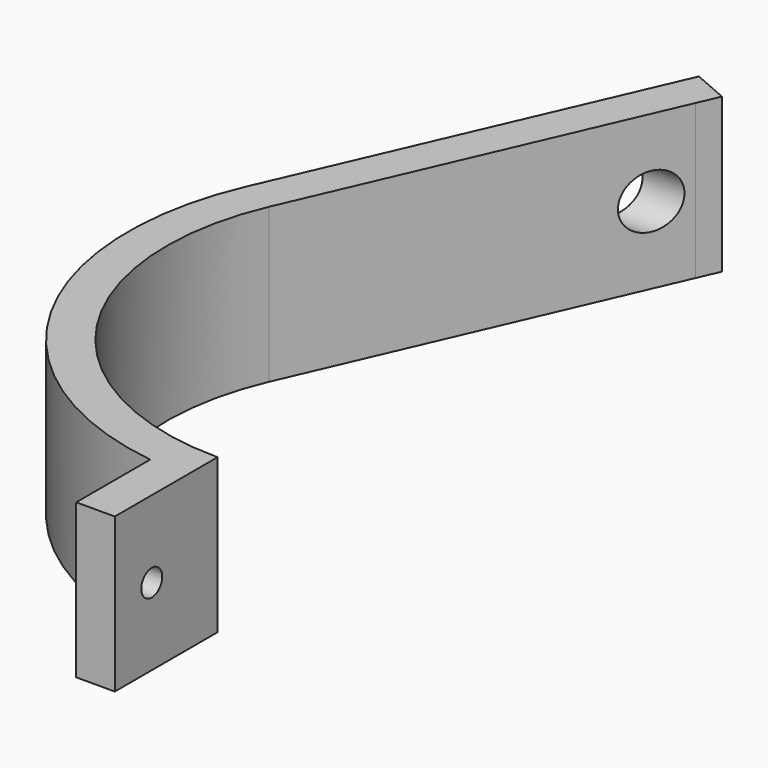
from build123d import *

# Parameters (mm, degrees)
F1_DEPTH  = 20
F2_R      = 3.4925
F3_DEPTH  = 50
F5_R      = 6.35
F5_R_2    = 3.4925
F6_DEPTH  = 7
F7_W      = 56.608487
F7_H      = 135.039326
F8_DEPTH  = 25
F9_R      = 1.7
F10_DEPTH = 25
F12_DEPTH = 25
F14_DEPTH = 20


with BuildPart() as f1:
    # F0 (on Top) → F1 (new body)
    with BuildSketch(Plane.XY):
        with BuildLine():
            ThreePointArc((15.308536, 92.973734), (0, 103), (-15.308536, 92.973734))
            Line((-15.308536, 92.973734), (-34.833795, 48.185741))
            ThreePointArc((-34.833795, 48.185741), (-33.092371, 14.321269), (-5, -4.669616))
            Line((-5, -4.669616), (-5, -16.669616))
            Line((-5, -16.669616), (0, -16.669616))
            Line((0, -16.669616), (0, -5))
            ThreePointArc((0, -5), (31.78882, 12.180036), (34.833795, 48.185741))
            Line((34.833795, 48.185741), (15.308536, 92.973734))
        make_face()
        with BuildLine():
            ThreePointArc((-10.725142, 90.97561), (0, 98), (10.725142, 90.97561))
            Line((10.725142, 90.97561), (30.250401, 46.187617))
            ThreePointArc((30.250401, 46.187617), (0, 0), (-30.250401, 46.187617))
            Line((-30.250401, 46.187617), (-10.725142, 90.97561))
        make_face(mode=Mode.SUBTRACT)
    extrude(amount=F1_DEPTH)

    # F2 (on Right) → F3 (cut, symmetric)
    with BuildSketch(Plane.YZ):
        with Locations((86.3, 10)):
            Circle(F2_R)
    extrude(amount=F3_DEPTH, both=True, mode=Mode.SUBTRACT)

    # F5 (on offset) → F6 (cut)
    with BuildSketch(Plane.YZ.offset(-25)):
        with Locations((86.3, 10)):
            Circle(F5_R)
        with Locations((86.3, 10)):
            Circle(F5_R_2, mode=Mode.SUBTRACT)
    extrude(amount=F6_DEPTH, mode=Mode.SUBTRACT)

    # F7 (on face) → F8 (cut)
    with BuildSketch(Plane.XY.offset(20)):
        with Locations((28.304243, 38.84458)):
            Rectangle(F7_W, F7_H)
    extrude(amount=-F8_DEPTH, mode=Mode.SUBTRACT)

    # F9 (on face) → F10 (cut)
    with BuildSketch(Plane(origin=(-5, 0, 0), x_dir=(0, -1, 0), z_dir=(-1, 0, 0))):
        with Locations((10.669616, 10)):
            Circle(F9_R)
    extrude(amount=-F10_DEPTH, mode=Mode.SUBTRACT)

    # F11 (on face) → F12 (cut)
    with BuildSketch(Plane.XY.offset(20)):
        Polygon((-17.911747, 98.920211), (-15.308536, 92.973734), (-10.725142, 90.97561), (6.21896, 97.293422), (0, 104.071707), align=None)
    extrude(amount=-F12_DEPTH, mode=Mode.SUBTRACT)

    # F13 (on Top) → F14 (join)
    with BuildSketch(Plane.XY):
        Polygon((-14.109662, 95.72377), (-15.308536, 92.973734), (-10.725142, 90.97561), (-9.526268, 93.725646), align=None)
    extrude(amount=F14_DEPTH)


solid = f1.part
